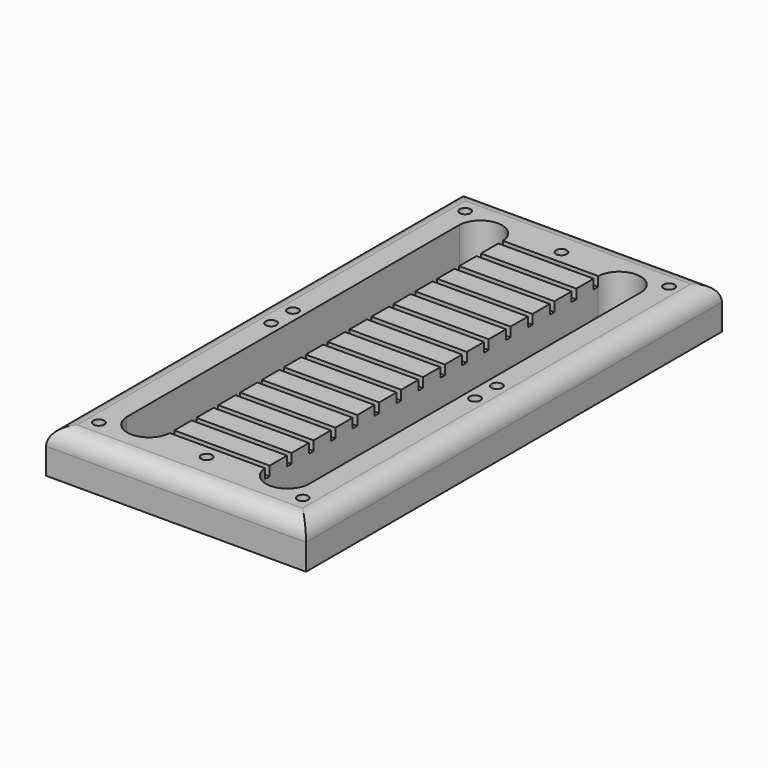
from build123d import *

# Parameters (mm, degrees)
F0_W     = 76.2
F0_H     = 152.4
F1_DEPTH = 12.7
F2_R     = 5.08
F4_DEPTH = 25.4
F5_R     = 1.5875
F6_DEPTH = 25.4
F7_W     = 27.94
F7_H     = 1.6778
F8_DEPTH = 2.794


with BuildPart() as f1:
    # F0 (on Top) → F1 (new body)
    with BuildSketch(Plane.XY):
        Rectangle(F0_W, F0_H)
    extrude(amount=F1_DEPTH)

    # F2
    f2_edges = [f1.edges().sort_by_distance(p)[0] for p in [
        (-38.1, 0, 12.7),
        (0, 76.2, 12.7),
        (38.1, 0, 12.7),
        (0, -76.2, 12.7),
    ]]
    fillet(f2_edges, radius=F2_R)

    # F3 (on face) → F4 (cut)
    with BuildSketch(Plane.XY.offset(12.7)):
        with BuildLine():
            Line((-13.97, -61.029911), (-13.97, 61.029911))
            ThreePointArc((-13.97, 61.029911), (-20.32, 67.076798), (-26.67, 61.029911))
            Line((-26.67, 61.029911), (-26.67, -61.029911))
            ThreePointArc((-26.67, -61.029911), (-20.32, -67.076798), (-13.97, -61.029911))
        make_face()
        with BuildLine():
            ThreePointArc((26.67, 61.029911), (20.32, 67.076798), (13.97, 61.029911))
            Line((13.97, 61.029911), (13.97, -61.029911))
            ThreePointArc((13.97, -61.029911), (20.32, -67.076798), (26.67, -61.029911))
            Line((26.67, -61.029911), (26.67, 61.029911))
        make_face()
    extrude(amount=-F4_DEPTH, mode=Mode.SUBTRACT)

    # F5 (on face) → F6 (cut)
    with BuildSketch(Plane.XY.offset(12.7)):
        with Locations((0, 65.014675)):
            Circle(F5_R)
        with Locations((0, -65.014675)):
            Circle(F5_R)
        with Locations((-29.88578, 67.111924)):
            Circle(F5_R)
        with Locations((29.88578, 67.111924)):
            Circle(F5_R)
        with Locations((29.88578, -67.111924)):
            Circle(F5_R)
        with Locations((-29.88578, -67.111924)):
            Circle(F5_R)
        with Locations((-29.88578, 4.008076)):
            Circle(F5_R)
        with Locations((29.88578, 4.008076)):
            Circle(F5_R)
        with Locations((-29.88578, -4.008076)):
            Circle(F5_R)
        with Locations((29.88578, -4.008076)):
            Circle(F5_R)
    extrude(amount=-F6_DEPTH, mode=Mode.SUBTRACT)

    # F7 (on face) → F8 (cut)
    with BuildSketch(Plane.XY.offset(12.7)):
        with Locations((0, 60.191011)):
            Rectangle(F7_W, F7_H)
        with Locations((0, 52.163211)):
            Rectangle(F7_W, F7_H)
        with Locations((0, 44.135411)):
            Rectangle(F7_W, F7_H)
        with Locations((0, 36.107611)):
            Rectangle(F7_W, F7_H)
        with Locations((0, 28.079811)):
            Rectangle(F7_W, F7_H)
        with Locations((0, 20.052011)):
            Rectangle(F7_W, F7_H)
        with Locations((0, 12.024211)):
            Rectangle(F7_W, F7_H)
        with Locations((0, 3.996411)):
            Rectangle(F7_W, F7_H)
        with Locations((0, -3.996411)):
            Rectangle(F7_W, F7_H)
        with Locations((0, -12.024211)):
            Rectangle(F7_W, F7_H)
        with Locations((0, -20.052011)):
            Rectangle(F7_W, F7_H)
        with Locations((0, -28.079811)):
            Rectangle(F7_W, F7_H)
        with Locations((0, -36.107611)):
            Rectangle(F7_W, F7_H)
        with Locations((0, -44.135411)):
            Rectangle(F7_W, F7_H)
        with Locations((0, -52.163211)):
            Rectangle(F7_W, F7_H)
        with Locations((0, -60.191011)):
            Rectangle(F7_W, F7_H)
    extrude(amount=-F8_DEPTH, mode=Mode.SUBTRACT)


solid = f1.part
